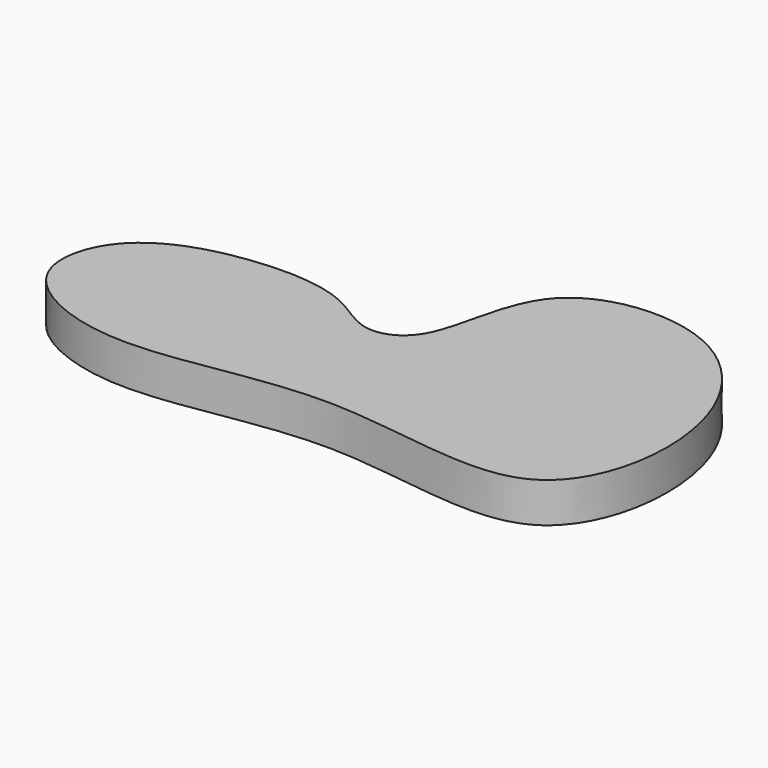
from build123d import *

# Parameters (mm, degrees)
F1_DEPTH = 5


with BuildPart() as f1:
    # F0 (on Top) → F1 (new body)
    with BuildSketch(Plane.XY):
        with BuildLine():
            add(Edge.make_bspline(
                [(-50.7169850171, 23.080188781), (-47.8241351192, 26.1597641719), (-38.3395479494, 28.8167733778), (-26.857940822, 27.9406781516), (-21.3964987589, 22.7020980068), (-13.7932016456, 25.6316945332), (-14.0962325705, 43.4527986609), (8.2393870538, 45.6542239439), (20.324419304, 27.7745120035), (14.8365366164, 2.706278263), (-14.672995748, 12.4815774318), (-38.0517963409, 3.9113998397), (-55.3679421012, 11.8547125699), (-53.1774189582, 20.4609406059), (-50.7169850171, 23.080188781)],
                knots=[0, 0, 0, 0, 0.0800554409, 0.1536722394, 0.2099881562, 0.2624154253, 0.3459147428, 0.4354875538, 0.5321482808, 0.6260741594, 0.736518748, 0.8476243538, 0.9319110459, 1, 1, 1, 1], degree=3))
        make_face()
    extrude(amount=F1_DEPTH)


solid = f1.part
